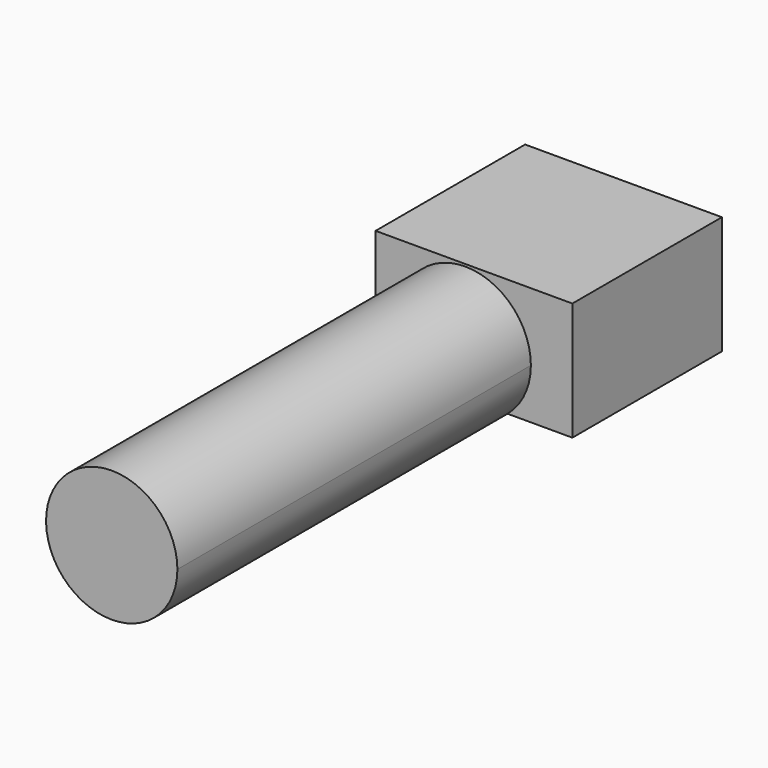
from build123d import *

# Parameters (mm, degrees)
F0_W     = 98.0357304215
F0_H     = 58.8409267366
F1_DEPTH = 25.4
F2_DEPTH = 67.7178427577
F4_DEPTH = 220.0948596001
F5_R     = 19.1741930287
F6_DEPTH = 130.0617903471
F7_DEPTH = 224.4969811291


with BuildPart() as f1:
    # F0 (on Front) → F1 (new body)
    with BuildSketch(Plane.XZ):
        with Locations((4.3684653938, 29.4204633683)):
            Rectangle(F0_W, F0_H)
    extrude(amount=F1_DEPTH)

    # F2 (add): a face of the model
    f2_faces = [f1.faces().sort_by_distance(p)[0] for p in [
        (4.3684653938, -25.4, 29.4204633683),
    ]]
    extrude(f2_faces, amount=F2_DEPTH)

    # F3 (on face) → F4 (join)
    with BuildSketch(Plane.XZ.offset(93.1178427577)):
        with BuildLine():
            Line((21.0881105967, 0), (-21.0881105967, 0))
            ThreePointArc((-21.0881105967, 0), (0, -7.7051669547), (21.0881105967, 0))
        make_face()
        with BuildLine():
            ThreePointArc((21.0881105967, 0), (29.6628537968, 11.2181038734), (32.7103883216, 25.0052213669))
            ThreePointArc((32.7103883216, 25.0052213669), (-13.7871174935, 54.6680751636), (-21.0881105967, 0))
            Line((-21.0881105967, 0), (21.0881105967, 0))
        make_face()
    extrude(amount=F4_DEPTH)

    # F5 (on face) → F6 (join)
    with BuildSketch(Plane.XZ.offset(313.2127023578)):
        with Locations((0, 25.0052213669)):
            Circle(F5_R)
    extrude(amount=-F6_DEPTH)

    # F7 (add): a face of the model
    f7_faces = [f1.faces().sort_by_distance(p)[0] for p in [
        (0, -313.2127023578, 25.0052213669),
    ]]
    extrude(f7_faces, amount=-F7_DEPTH)


solid = f1.part
